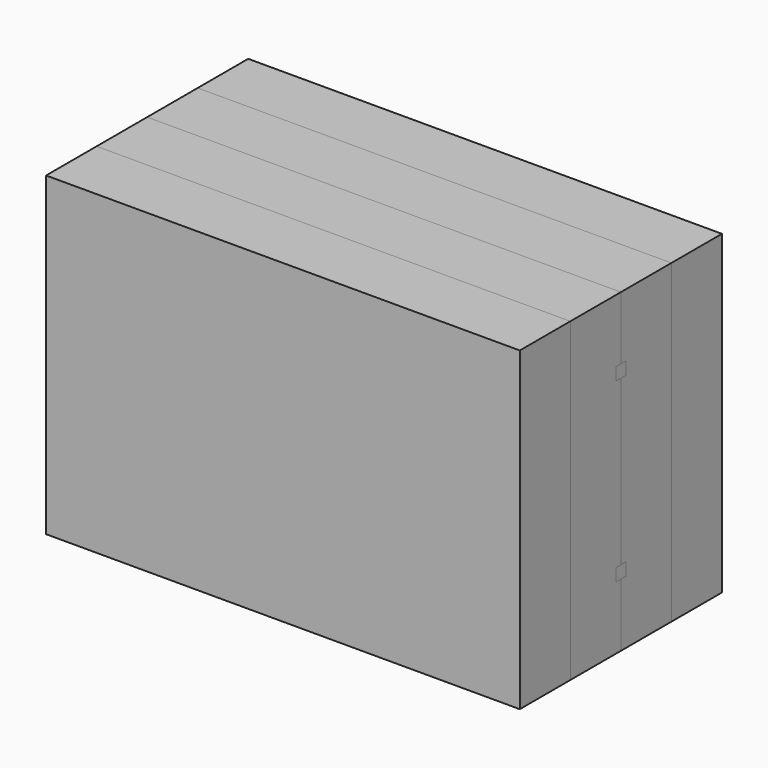
from build123d import *

# Parameters (mm, degrees)
F0_W      = 75
F0_H      = 50
F1_DEPTH  = 10
F2_W      = 75
F2_H      = 50
F3_DEPTH  = 10
F4_W      = 75
F4_H      = 2
F5_DEPTH  = 1
F6_W      = 75
F6_H      = 2
F7_DEPTH  = 1
F8_W      = 75
F8_H      = 2
F9_DEPTH  = 2
F12_ANGLE = 180


with BuildPart() as f1:
    # F0 (on Front) → F1 (new body)
    with BuildSketch(Plane.XZ):
        Rectangle(F0_W, F0_H)
    extrude(amount=F1_DEPTH)


with BuildPart() as f3:
    # F2 (on face) → F3 (new body)
    with BuildSketch(Plane.XZ.offset(10)):
        Rectangle(F2_W, F2_H)
    extrude(amount=F3_DEPTH)

    # F4 (on face) → F5 (cut)
    with BuildSketch(Plane.XZ.offset(20)):
        with Locations((0, 14)):
            Rectangle(F4_W, F4_H)
    extrude(amount=-F5_DEPTH, mode=Mode.SUBTRACT)

    # F6 (on face) → F7 (cut)
    with BuildSketch(Plane.XZ.offset(20)):
        with Locations((0, -14)):
            Rectangle(F6_W, F6_H)
    extrude(amount=-F7_DEPTH, mode=Mode.SUBTRACT)


with BuildPart() as f9:
    # F8 (on face) → F9 (new body)
    with BuildSketch(Plane.XZ.offset(19)):
        with Locations((0, 14)):
            Rectangle(F8_W, F8_H)
    extrude(amount=F9_DEPTH)


with BuildPart() as f10_1:
    # F10: copy of F9
    add(f9.part.moved(Location((0, 0, -28))))


with BuildPart() as f11_1:
    # F11: copy of F3
    add(f3.part.moved(Location((0, -10, 0))))


with BuildPart() as f11_1_1:
    # F12: moved
    add(f11_1.part.rotate(Axis((-37.5, -20, 0), (0, 0, -1)), F12_ANGLE))


with BuildPart() as f11_1_2:
    # F13: moved
    add(f11_1_1.part.moved(Location((75, -10, 0))))


with BuildPart() as f14_1:
    # F14: copy of F9
    add(f9.part.moved(Location((0, -2, 0))))


with BuildPart() as f15_1:
    # F15: copy of F10_1
    add(f10_1.part.moved(Location((0, -2, 0))))


with BuildPart() as f16_1:
    # F16: copy of F1
    add(f1.part.moved(Location((0, -30, 0))))


with BuildPart() as f9_1:
    # F19: moved
    add(f9.part)


with BuildPart() as f10_1_1:
    # F20: moved
    add(f10_1.part)


solid = Compound([f1.part, f3.part, f11_1_2.part, f16_1.part, f9_1.part, f10_1_1.part])
